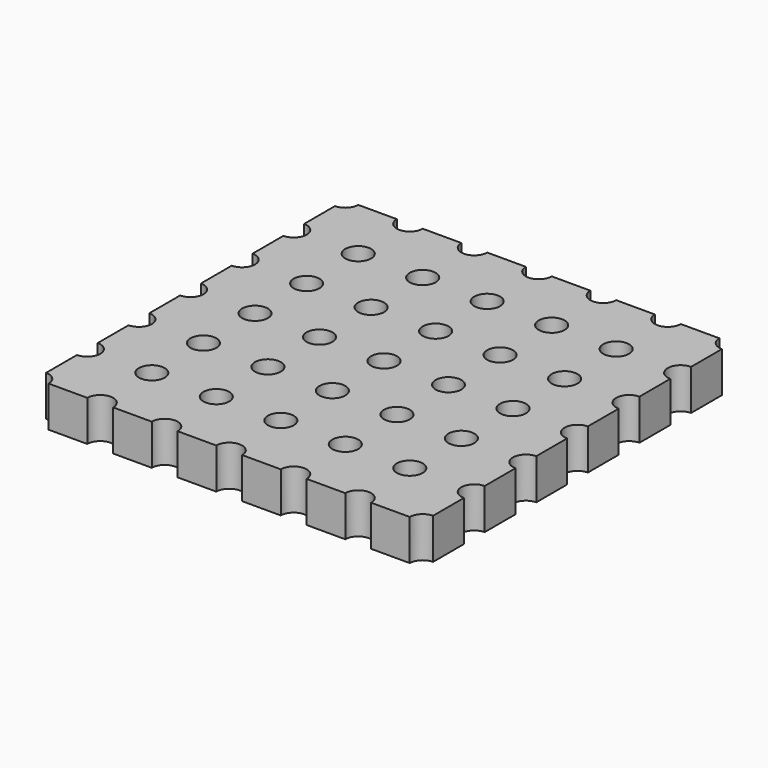
from build123d import *

# Parameters (mm, degrees)
SKETCH_W                     = 15.24
SKETCH_H                     = 15.24
PAD_DEPTH                    = 1.6
SKETCH001_R                  = 0.51
POCKET_DEPTH                 = 44.824845
SKETCH001_LINEARPATTERN_2_R  = 0.51
POCKET_LINEARPATTERN_2_DEPTH = 44.824845
SKETCH001_LINEARPATTERN_3_R  = 0.51
POCKET_LINEARPATTERN_3_DEPTH = 44.824845
SKETCH001_LINEARPATTERN_4_R  = 0.51
POCKET_LINEARPATTERN_4_DEPTH = 44.824845
SKETCH001_LINEARPATTERN_5_R  = 0.51
POCKET_LINEARPATTERN_5_DEPTH = 44.824845
SKETCH001_LINEARPATTERN_6_R  = 0.51
POCKET_LINEARPATTERN_6_DEPTH = 44.824845
SKETCH001_LINEARPATTERN_7_R  = 0.51
POCKET_LINEARPATTERN_7_DEPTH = 44.824845
LINEARPATTERN003_COUNT       = 7
LINEARPATTERN003_PITCH       = 2.54


with BuildPart() as part:
    # Sketch → Pad (new body)
    with BuildSketch(Plane.XY):
        Rectangle(SKETCH_W, SKETCH_H)
    extrude(amount=PAD_DEPTH)

    # Sketch001 → Pocket (cut, through all)
    with BuildSketch(Plane.XY.offset(1.6)):
        with Locations((-7.62, 7.62)):
            Circle(SKETCH001_R)
    pocket = extrude(amount=-POCKET_DEPTH, mode=Mode.SUBTRACT)

    # Sketch001 LinearPattern 2 → Pocket LinearPattern 2 (cut, through all)
    with BuildSketch(Plane(origin=(2.54, 0, 1.6), x_dir=(1, 0, 0), z_dir=(0, 0, 1))):
        with Locations((-7.62, 7.62)):
            Circle(SKETCH001_LINEARPATTERN_2_R)
    pocket_linearpattern_2 = extrude(amount=-POCKET_LINEARPATTERN_2_DEPTH, mode=Mode.SUBTRACT)

    # Sketch001 LinearPattern 3 → Pocket LinearPattern 3 (cut, through all)
    with BuildSketch(Plane(origin=(5.08, 0, 1.6), x_dir=(1, 0, 0), z_dir=(0, 0, 1))):
        with Locations((-7.62, 7.62)):
            Circle(SKETCH001_LINEARPATTERN_3_R)
    pocket_linearpattern_3 = extrude(amount=-POCKET_LINEARPATTERN_3_DEPTH, mode=Mode.SUBTRACT)

    # Sketch001 LinearPattern 4 → Pocket LinearPattern 4 (cut, through all)
    with BuildSketch(Plane(origin=(7.62, 0, 1.6), x_dir=(1, 0, 0), z_dir=(0, 0, 1))):
        with Locations((-7.62, 7.62)):
            Circle(SKETCH001_LINEARPATTERN_4_R)
    pocket_linearpattern_4 = extrude(amount=-POCKET_LINEARPATTERN_4_DEPTH, mode=Mode.SUBTRACT)

    # Sketch001 LinearPattern 5 → Pocket LinearPattern 5 (cut, through all)
    with BuildSketch(Plane(origin=(10.16, 0, 1.6), x_dir=(1, 0, 0), z_dir=(0, 0, 1))):
        with Locations((-7.62, 7.62)):
            Circle(SKETCH001_LINEARPATTERN_5_R)
    pocket_linearpattern_5 = extrude(amount=-POCKET_LINEARPATTERN_5_DEPTH, mode=Mode.SUBTRACT)

    # Sketch001 LinearPattern 6 → Pocket LinearPattern 6 (cut, through all)
    with BuildSketch(Plane(origin=(12.7, 0, 1.6), x_dir=(1, 0, 0), z_dir=(0, 0, 1))):
        with Locations((-7.62, 7.62)):
            Circle(SKETCH001_LINEARPATTERN_6_R)
    pocket_linearpattern_6 = extrude(amount=-POCKET_LINEARPATTERN_6_DEPTH, mode=Mode.SUBTRACT)

    # Sketch001 LinearPattern 7 → Pocket LinearPattern 7 (cut, through all)
    with BuildSketch(Plane(origin=(15.24, 0, 1.6), x_dir=(1, 0, 0), z_dir=(0, 0, 1))):
        with Locations((-7.62, 7.62)):
            Circle(SKETCH001_LINEARPATTERN_7_R)
    pocket_linearpattern_7 = extrude(amount=-POCKET_LINEARPATTERN_7_DEPTH, mode=Mode.SUBTRACT)

    # LinearPattern003: Pocket, Pocket LinearPattern 2, Pocket LinearPattern 3, Pocket LinearPattern 4, Pocket LinearPattern 5, Pocket LinearPattern 6, Pocket LinearPattern 7 ×7
    with Locations(*[(0, -i * LINEARPATTERN003_PITCH, 0) for i in range(1, LINEARPATTERN003_COUNT)]):
        add(pocket, mode=Mode.SUBTRACT)
        add(pocket_linearpattern_2, mode=Mode.SUBTRACT)
        add(pocket_linearpattern_3, mode=Mode.SUBTRACT)
        add(pocket_linearpattern_4, mode=Mode.SUBTRACT)
        add(pocket_linearpattern_5, mode=Mode.SUBTRACT)
        add(pocket_linearpattern_6, mode=Mode.SUBTRACT)
        add(pocket_linearpattern_7, mode=Mode.SUBTRACT)


solid = part.part
